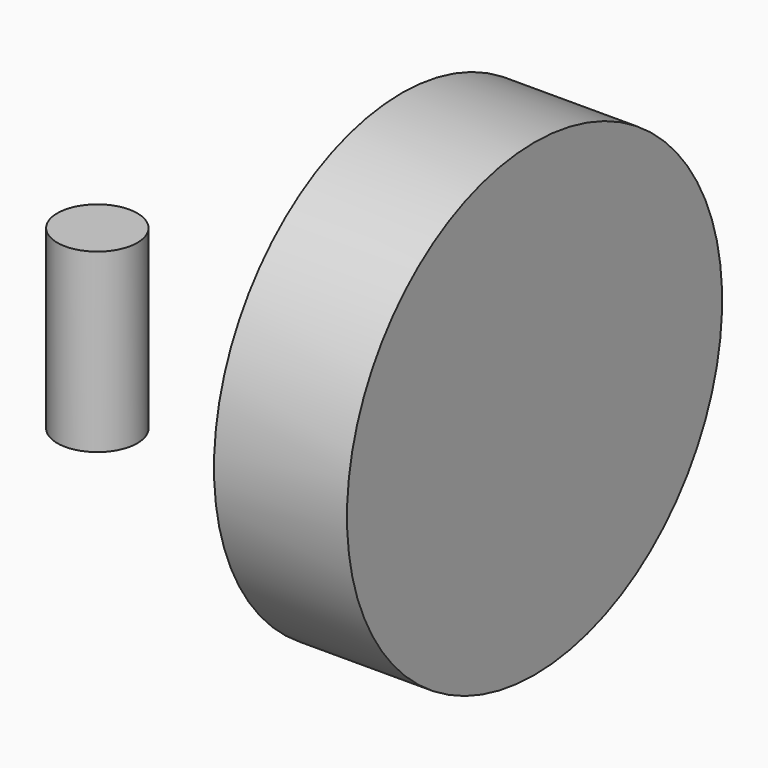
from build123d import *

# Parameters (mm, degrees)
F0_R     = 18.200806
F1_DEPTH = 80.264
F2_W     = 60.47716
F2_H     = 106.624194


with BuildPart() as f1:
    # F0 (on Top) → F1 (new body)
    with BuildSketch(Plane.XY):
        with Locations((-133.151844, -42.987186)):
            Circle(F0_R)
    extrude(amount=F1_DEPTH)


with BuildPart() as f3:
    # F2 (on Front) → F3 (revolve)
    with BuildSketch(Plane.XZ):
        with Locations((1.042709, -9.34406)):
            Rectangle(F2_W, F2_H)
    revolve(axis=Axis((1.042709, 0, 43.968037), (1, 0, 0)))


solid = Compound([f1.part, f3.part])
